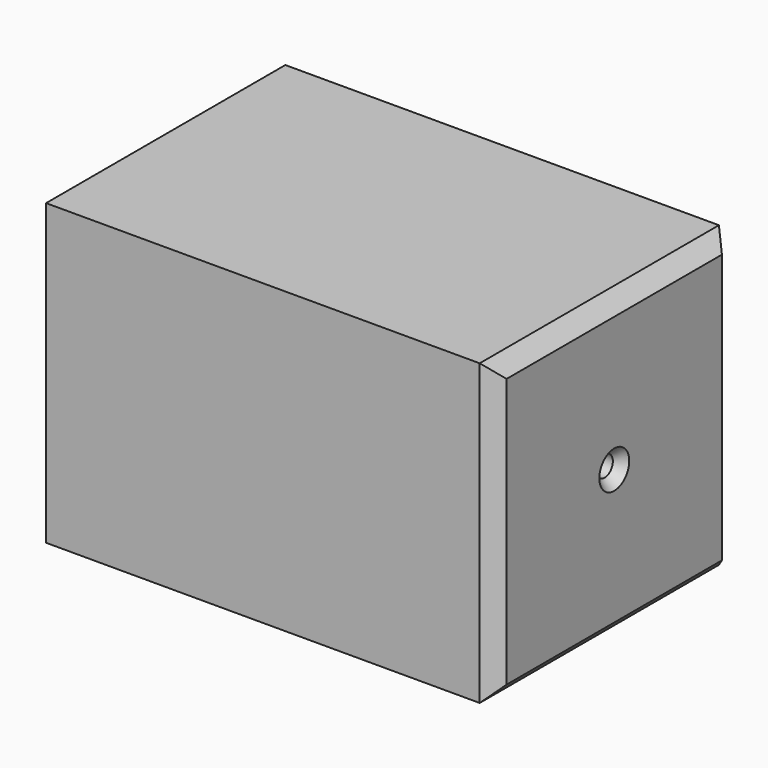
from build123d import *

# Parameters (mm, degrees)
F0_W           = 76.2
F0_H           = 50.8
F1_DEPTH       = 25.4
F3_D           = 3.5
F3_DEPTH       = 12.7
F3_CSINK_D     = 6.35
F3_CSINK_ANGLE = 82
F3_TIP         = 1.0515060833
F4_SIZE        = 2.54


with BuildPart() as f1:
    # F0 (on Front) → F1 (new body, symmetric)
    with BuildSketch(Plane.XZ):
        with Locations((-9.801236459, -1.6849683598)):
            Rectangle(F0_W, F0_H)
    extrude(amount=F1_DEPTH, both=True)

    # F3
    with Locations(Plane.YZ.offset(28.298763541)):
        with Locations((0, -1.6849683598)):
            CounterSinkHole(F3_D / 2, F3_CSINK_D / 2, depth=F3_DEPTH, counter_sink_angle=F3_CSINK_ANGLE)
            with Locations((0, 0, -(F3_DEPTH + F3_TIP / 2))):  # 118° drill point
                Cone(0, F3_D / 2, F3_TIP, mode=Mode.SUBTRACT)

    # F4
    f4_edges = [f1.edges().sort_by_distance(p)[0] for p in [
        (28.298764, 0, -27.084968),
        (28.298764, -25.4, -1.684968),
        (28.298764, 0, 23.715032),
        (28.298764, 25.4, -1.684968),
    ]]
    chamfer(f4_edges, length=F4_SIZE)


solid = f1.part
